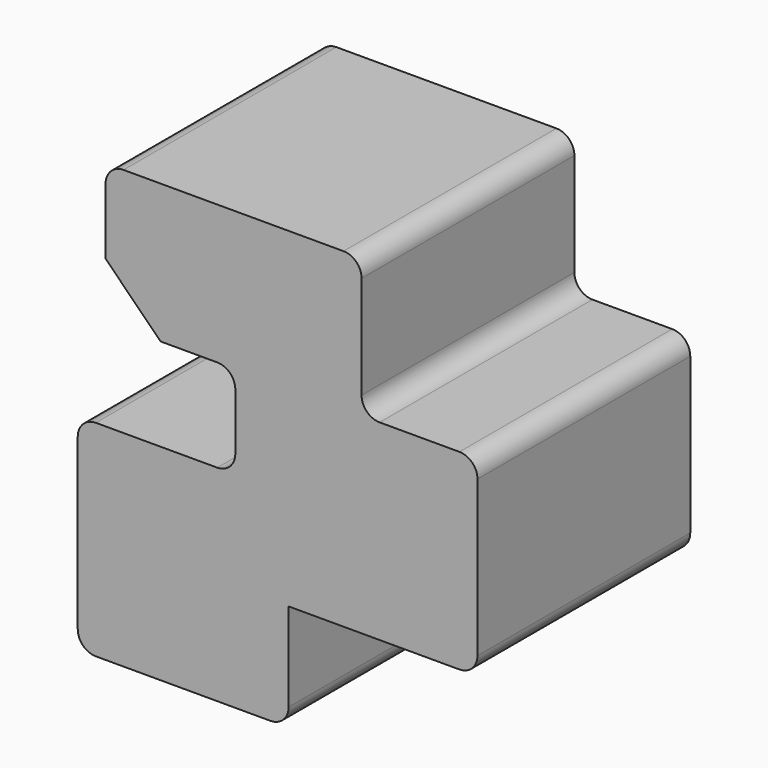
from build123d import *

# Parameters (mm, degrees)
F1_DEPTH = 73.66
F2_R     = 5
F4_DEPTH = 73.661
F5_R     = 6.35
F6_DEPTH = 50.8


with BuildPart() as f1:
    # F0 (on Front) → F1 (new body)
    with BuildSketch(Plane.XZ):
        Polygon((-32.808065, 47.349315), (-32.808065, 8.859315), (3.131935, 8.859315), (3.131935, -16.800685), (-40.508065, -16.800685), (-40.508065, -73.740685), (17.891935, -73.740685), (17.891935, -44.200685), (70.191935, -44.200685), (70.191935, 8.859315), (38.101935, 8.859315), (38.101935, 47.349315), align=None)
    extrude(amount=-F1_DEPTH)

    # F2
    f2_edges = [f1.edges().sort_by_distance(p)[0] for p in [
        (38.101935, 36.83, 47.349315),
        (-32.808065, 36.83, 47.349315),
        (38.101935, 36.83, 8.859315),
        (70.191935, 36.83, 8.859315),
        (70.191935, 36.83, -44.200685),
        (17.891935, 36.83, -73.740685),
        (-40.508065, 36.83, -73.740685),
        (-40.508065, 36.83, -16.800685),
        (3.131935, 36.83, -16.800685),
        (3.131935, 36.83, 8.859315),
    ]]
    fillet(f2_edges, radius=F2_R)

    # F3 (on face) → F4 (cut, through all)
    with BuildSketch(Plane.XZ):
        Polygon((-32.808065, 24.099315), (-32.808065, 8.859315), (-17.568065, 8.859315), align=None)
    extrude(amount=-F4_DEPTH, mode=Mode.SUBTRACT)

    # F5 (on face) → F6 (cut)
    with BuildSketch(Plane(origin=(0, 73.66, 0), x_dir=(-1, 0, 0), z_dir=(0, 1, 0))):
        with Locations((25.380932, -31.556167)):
            Circle(F5_R)
    extrude(amount=-F6_DEPTH, mode=Mode.SUBTRACT)


solid = f1.part
